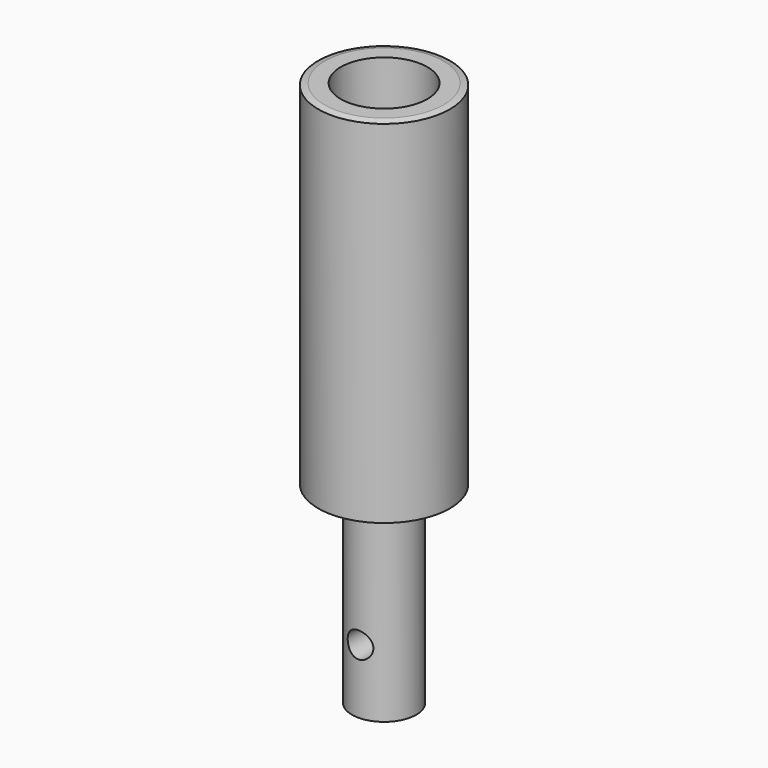
from build123d import *

# Parameters (mm, degrees)
F0_R     = 5
F1_DEPTH = 30
F2_R     = 10.25
F3_DEPTH = 55
F4_R     = 6.75
F5_DEPTH = 45
F6_SIZE2 = 0.2679491924
F6_SIZE  = 1
F7_R     = 2
F8_DEPTH = 10


with BuildPart() as f1:
    # F0 (on Top) → F1 (new body)
    with BuildSketch(Plane.XY):
        Circle(F0_R)
    extrude(amount=F1_DEPTH)

    # F2 (on face) → F3 (join)
    with BuildSketch(Plane.XY.offset(30)):
        Circle(F2_R)
    extrude(amount=F3_DEPTH)

    # F4 (on face) → F5 (cut)
    with BuildSketch(Plane.XY.offset(85)):
        Circle(F4_R)
    extrude(amount=-F5_DEPTH, mode=Mode.SUBTRACT)

    # F6
    f6_edges = [f1.edges().sort_by_distance(p)[0] for p in [
        (-10.25, 0, 85),
    ]]
    f6_side = f1.faces().sort_by_distance((-9.960086, 0, 85))[0]
    chamfer(f6_edges, length=F6_SIZE, length2=F6_SIZE2, reference=f6_side)

    # F7 (on Front) → F8 (cut, symmetric)
    with BuildSketch(Plane.XZ):
        with Locations((0, 10)):
            Circle(F7_R)
    extrude(amount=F8_DEPTH, both=True, mode=Mode.SUBTRACT)


solid = f1.part
